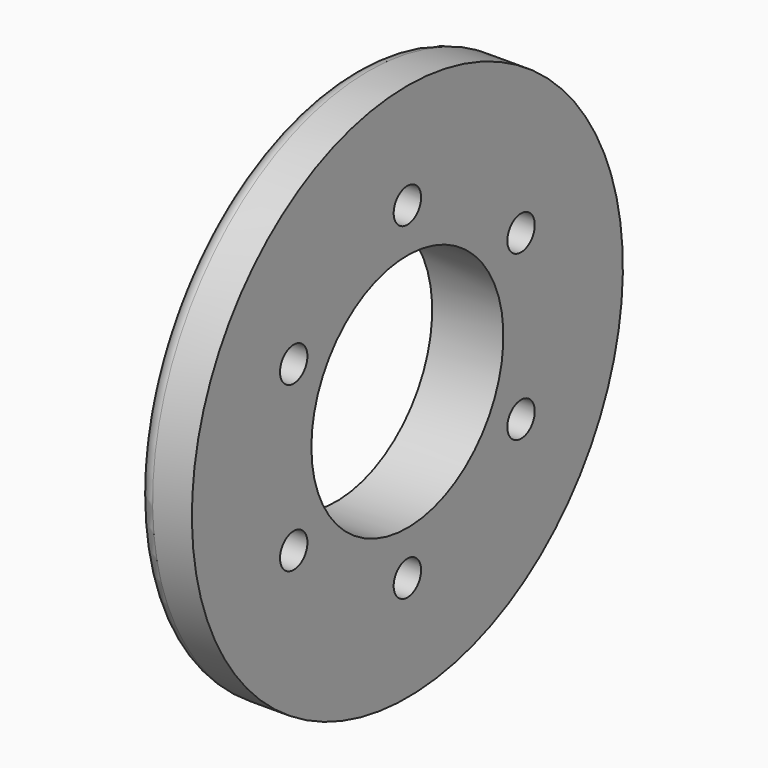
from build123d import *

# Parameters (mm, degrees)
F2_R     = 24.5
F3_DEPTH = 14.540077
F4_R     = 3.5
F5_DEPTH = 5.540077


with BuildPart() as f1:
    # F0 (on Front) → F1 (revolve)
    with BuildSketch(Plane.XZ):
        with BuildLine():
            Line((16.65759, 20.249971), (8.641342, 20.249971))
            ThreePointArc((8.641342, 20.249971), (5.963574, 18.780897), (5.763815, 15.733158))
            Line((5.763815, 15.733158), (11.118513, 4.249971))
            Line((11.118513, 4.249971), (11.118513, -8.750029))
            Line((11.118513, -8.750029), (2.118513, -8.750029))
            Line((2.118513, -8.750029), (2.118513, -34.750036))
            Line((2.118513, -34.750036), (16.65759, -34.750036))
            Line((16.65759, -34.750036), (16.65759, 4.249971))
            Line((16.65759, 4.249971), (16.65759, 20.249971))
        make_face()
    revolve(axis=Axis((9.388052, 0, -34.750036), (1, 0, 0)))

    # F2 (on face) → F3 (cut, through all)
    with BuildSketch(Plane(origin=(2.118513, 0, 0), x_dir=(0, -1, 0), z_dir=(-1, 0, 0))):
        with Locations((0, -34.750036)):
            Circle(F2_R)
    extrude(amount=-F3_DEPTH, mode=Mode.SUBTRACT)

    # F4 (on face) → F5 (cut, through all)
    with BuildSketch(Plane(origin=(11.118513, 0, 0), x_dir=(0, -1, 0), z_dir=(-1, 0, 0))):
        with Locations((0, -1.250036)):
            Circle(F4_R)
        with Locations((-29.011851, -18.000036)):
            Circle(F4_R)
        with Locations((-29.011851, -51.500036)):
            Circle(F4_R)
        with Locations((0, -68.250036)):
            Circle(F4_R)
        with Locations((29.011851, -51.500036)):
            Circle(F4_R)
        with Locations((29.011851, -18.000036)):
            Circle(F4_R)
    extrude(amount=-F5_DEPTH, mode=Mode.SUBTRACT)


solid = f1.part
